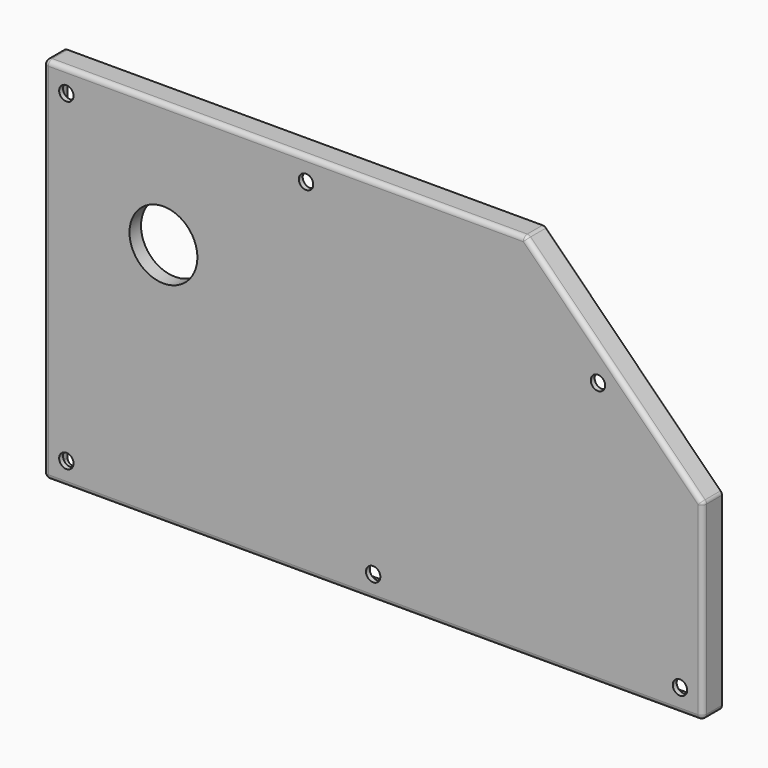
from build123d import *

# Parameters (mm, degrees)
F1_DEPTH  = 10
F2_T      = -2
F4_DEPTH  = 4
F5_R      = 13.5
F6_DEPTH  = 20
F7_R      = 4
F8_DEPTH  = 20
F10_D     = 6
F11_R     = 2
F12_R     = 2
F13_R     = 14.15
F14_DEPTH = 6.001


with BuildPart() as f1:
    # F0 (on Front) → F1 (new body)
    with BuildSketch(Plane.XZ):
        Polygon((0, 154), (0, 0), (275, 0), (275, 80), (201, 154), align=None)
    extrude(amount=F1_DEPTH)

    # F2
    f2_openings = [f1.faces().sort_by_distance(p)[0] for p in [
        (129.700907, 0, 73.382695),
    ]]
    offset(amount=F2_T, openings=f2_openings)

    # F3 (on face) → F4 (join)
    with BuildSketch(Plane(origin=(0, -8, 0), x_dir=(-1, 0, 0), z_dir=(0, 1, 0))):
        Polygon((-32, 87), (-32, 132), (-177, 132), (-177, 22), (-97, 22), align=None)
        Polygon((-32, 87), (-32, 132), (-177, 132), (-177, 22), (-97, 22), align=None)
    extrude(amount=F4_DEPTH)

    # F5 (on face) → F6 (join)
    with BuildSketch(Plane(origin=(0, -8, 0), x_dir=(-1, 0, 0), z_dir=(0, 1, 0))):
        with Locations((-44, 44)):
            Circle(F5_R)
    extrude(amount=F6_DEPTH)

    # F7 (on face) → F8 (cut, through all)
    with BuildSketch(Plane(origin=(0, 12, 0), x_dir=(-1, 0, 0), z_dir=(0, 1, 0))):
        with Locations((-44, 44)):
            Circle(F7_R)
    extrude(amount=-F8_DEPTH, mode=Mode.SUBTRACT)

    # F10 (through all)
    with Locations(Plane.XZ.offset(10)):
        with Locations((9.5, 144.5), (109.5, 144.5), (231.2824855787, 110.2824855787), (265.5, 9.5), (137.5, 9.5), (9.5, 9.5)):
            Hole(F10_D / 2)

    # F11
    f11_edges = [f1.edges().sort_by_distance(p)[0] for p in [
        (0, -10, 77),
        (137.5, -10, 0),
        (238, -10, 117),
        (275, -10, 40),
        (275, -5, 0),
        (275, -5, 80),
        (201, -5, 154),
        (0, -5, 0),
        (100.5, -10, 154),
        (0, -5, 154),
    ]]
    fillet(f11_edges, radius=F11_R)

    # F12
    f12_edges = [f1.edges().sort_by_distance(p)[0] for p in [
        (273, -4, 2),
        (137.5, -8, 2),
        (273, -8, 40.585786),
        (236.585786, -8, 115.585786),
        (200.171573, -4, 152),
        (101.085786, -8, 152),
        (2, -4, 2),
        (2, -8, 77),
    ]]
    fillet(f12_edges, radius=F12_R)

    # F13 (on face) → F14 (cut, through all)
    with BuildSketch(Plane(origin=(0, -4, 0), x_dir=(-1, 0, 0), z_dir=(0, 1, 0))):
        with Locations((-50, 102)):
            Circle(F13_R)
    extrude(amount=-F14_DEPTH, mode=Mode.SUBTRACT)


solid = f1.part
